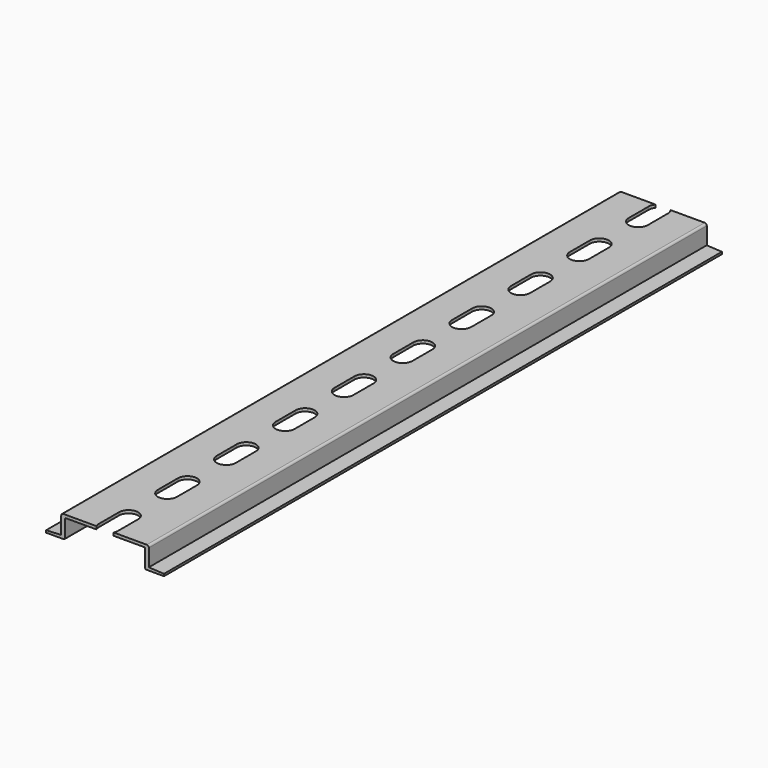
from build123d import *

# Parameters (mm, degrees)
F1_DEPTH = 237
F3_DEPTH = 8.015416


with BuildPart() as f1:
    # F0 (on Front) → F1 (new body)
    with BuildSketch(Plane.XZ):
        with BuildLine():
            Line((5.152125, 1.488392), (0, 1.226804))
            Line((0, 1.226804), (0, 0.488392))
            Line((0, 0.488392), (5.952125, 0.488392))
            ThreePointArc((5.952125, 0.488392), (6.305678, 0.634838), (6.452125, 0.988392))
            Line((6.452125, 0.988392), (6.452125, 6.714416))
            ThreePointArc((6.452125, 6.714416), (6.539993, 6.926548), (6.752125, 7.014416))
            Line((6.752125, 7.014416), (33.319956, 7.014416))
            ThreePointArc((33.319956, 7.014416), (33.532088, 6.926548), (33.619956, 6.714416))
            Line((33.619956, 6.714416), (33.619956, 0.988392))
            ThreePointArc((33.619956, 0.988392), (33.766403, 0.634838), (34.119956, 0.488392))
            Line((34.119956, 0.488392), (40.072081, 0.488392))
            Line((40.072081, 0.488392), (40.072081, 1.226804))
            Line((40.072081, 1.226804), (34.919956, 1.488392))
            Line((34.919956, 1.488392), (34.919956, 7.314416))
            ThreePointArc((34.919956, 7.314416), (34.714931, 7.809391), (34.219956, 8.014416))
            Line((34.219956, 8.014416), (5.852125, 8.014416))
            ThreePointArc((5.852125, 8.014416), (5.35715, 7.809391), (5.152125, 7.314416))
            Line((5.152125, 7.314416), (5.152125, 1.488392))
        make_face()
    extrude(amount=-F1_DEPTH)

    # F2 (on Top) → F3 (cut, through all)
    with BuildSketch(Plane.XY):
        with BuildLine():
            ThreePointArc((23.28604, 10), (20.03604, 13.25), (16.78604, 10))
            Line((16.78604, 10), (16.78604, 1.5))
            ThreePointArc((16.78604, 1.5), (20.03604, -1.75), (23.28604, 1.5))
            Line((23.28604, 1.5), (23.28604, 10))
        make_face()
        with BuildLine():
            Line((16.78604, 35), (16.78604, 26.5))
            ThreePointArc((16.78604, 26.5), (20.03604, 23.25), (23.28604, 26.5))
            Line((23.28604, 26.5), (23.28604, 35))
            ThreePointArc((23.28604, 35), (20.03604, 38.25), (16.78604, 35))
        make_face()
        with BuildLine():
            Line((16.78604, 60), (16.78604, 51.5))
            ThreePointArc((16.78604, 51.5), (20.03604, 48.25), (23.28604, 51.5))
            Line((23.28604, 51.5), (23.28604, 60))
            ThreePointArc((23.28604, 60), (20.03604, 63.25), (16.78604, 60))
        make_face()
        with BuildLine():
            Line((16.78604, 85), (16.78604, 76.5))
            ThreePointArc((16.78604, 76.5), (20.03604, 73.25), (23.28604, 76.5))
            Line((23.28604, 76.5), (23.28604, 85))
            ThreePointArc((23.28604, 85), (20.03604, 88.25), (16.78604, 85))
        make_face()
        with BuildLine():
            Line((16.78604, 110), (16.78604, 101.5))
            ThreePointArc((16.78604, 101.5), (20.03604, 98.25), (23.28604, 101.5))
            Line((23.28604, 101.5), (23.28604, 110))
            ThreePointArc((23.28604, 110), (20.03604, 113.25), (16.78604, 110))
        make_face()
        with BuildLine():
            Line((16.78604, 135), (16.78604, 126.5))
            ThreePointArc((16.78604, 126.5), (20.03604, 123.25), (23.28604, 126.5))
            Line((23.28604, 126.5), (23.28604, 135))
            ThreePointArc((23.28604, 135), (20.03604, 138.25), (16.78604, 135))
        make_face()
        with BuildLine():
            Line((16.78604, 160), (16.78604, 151.5))
            ThreePointArc((16.78604, 151.5), (20.03604, 148.25), (23.28604, 151.5))
            Line((23.28604, 151.5), (23.28604, 160))
            ThreePointArc((23.28604, 160), (20.03604, 163.25), (16.78604, 160))
        make_face()
        with BuildLine():
            Line((16.78604, 185), (16.78604, 176.5))
            ThreePointArc((16.78604, 176.5), (20.03604, 173.25), (23.28604, 176.5))
            Line((23.28604, 176.5), (23.28604, 185))
            ThreePointArc((23.28604, 185), (20.03604, 188.25), (16.78604, 185))
        make_face()
        with BuildLine():
            Line((16.78604, 210), (16.78604, 201.5))
            ThreePointArc((16.78604, 201.5), (20.03604, 198.25), (23.28604, 201.5))
            Line((23.28604, 201.5), (23.28604, 210))
            ThreePointArc((23.28604, 210), (20.03604, 213.25), (16.78604, 210))
        make_face()
        with BuildLine():
            Line((16.78604, 235), (16.78604, 226.5))
            ThreePointArc((16.78604, 226.5), (20.03604, 223.25), (23.28604, 226.5))
            Line((23.28604, 226.5), (23.28604, 235))
            ThreePointArc((23.28604, 235), (20.03604, 238.25), (16.78604, 235))
        make_face()
    extrude(amount=F3_DEPTH, mode=Mode.SUBTRACT)


solid = f1.part
